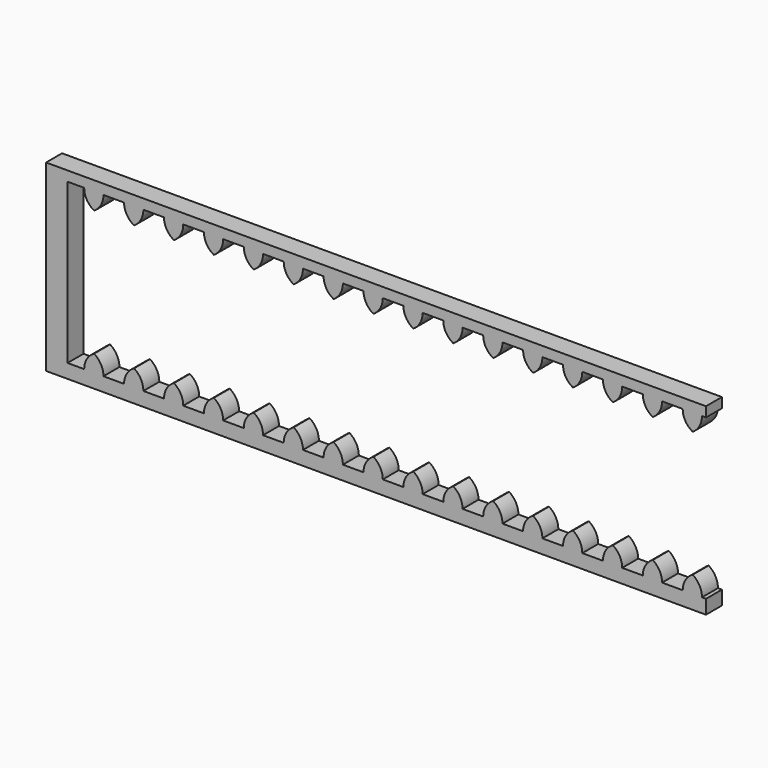
from build123d import *

# Parameters (mm, degrees)
F1_DEPTH = 6.35


with BuildPart() as f1:
    # F0 (on Front) → F1 (new body)
    with BuildSketch(Plane.XZ):
        Polygon((-100.167322, -14.499216), (-100.167322, 36.300784), (-94.868163, 36.300784), (-88.733239, 36.300784), (-82.168163, 36.300784), (-76.033239, 36.300784), (-69.468163, 36.300784), (-63.333239, 36.300784), (-56.768163, 36.300784), (-50.633239, 36.300784), (-44.068163, 36.300784), (-37.933239, 36.300784), (-31.368163, 36.300784), (-25.233239, 36.300784), (-18.668163, 36.300784), (-12.533239, 36.300784), (-5.968163, 36.300784), (0.166761, 36.300784), (6.731837, 36.300784), (12.866761, 36.300784), (19.431837, 36.300784), (25.566761, 36.300784), (32.131837, 36.300784), (38.266761, 36.300784), (44.831837, 36.300784), (50.966761, 36.300784), (57.531837, 36.300784), (63.666761, 36.300784), (70.231837, 36.300784), (76.366761, 36.300784), (82.931837, 36.300784), (89.066761, 36.300784), (95.631837, 36.300784), (101.766761, 36.300784), (103.032678, 36.300784), (103.032678, 39.458872), (-106.993854, 39.458872), (-106.993854, -18.961128), (103.032678, -18.961128), (103.032678, -14.499216), (101.766761, -14.499216), (95.631837, -14.499216), (89.066761, -14.499216), (82.931837, -14.499216), (76.366761, -14.499216), (70.231837, -14.499216), (63.666761, -14.499216), (57.531837, -14.499216), (50.966761, -14.499216), (44.831837, -14.499216), (38.266761, -14.499216), (32.131837, -14.499216), (25.566761, -14.499216), (19.431837, -14.499216), (12.866761, -14.499216), (6.731837, -14.499216), (0.166761, -14.499216), (-5.968163, -14.499216), (-12.533239, -14.499216), (-18.668163, -14.499216), (-25.233239, -14.499216), (-31.368163, -14.499216), (-37.933239, -14.499216), (-44.068163, -14.499216), (-50.633239, -14.499216), (-56.768163, -14.499216), (-63.333239, -14.499216), (-69.468163, -14.499216), (-76.033239, -14.499216), (-82.168163, -14.499216), (-88.733239, -14.499216), (-94.868163, -14.499216), align=None)
        with BuildLine():
            Line((-88.733239, 36.300784), (-94.868163, 36.300784))
            ThreePointArc((-94.868163, 36.300784), (-94.016162, 33.181807), (-91.696805, 30.92914))
            ThreePointArc((-91.696805, 30.92914), (-89.523277, 33.233322), (-88.733239, 36.300784))
        make_face()
        with BuildLine():
            Line((-76.033239, 36.300784), (-82.168163, 36.300784))
            ThreePointArc((-82.168163, 36.300784), (-81.316162, 33.181807), (-78.996805, 30.92914))
            ThreePointArc((-78.996805, 30.92914), (-76.823277, 33.233322), (-76.033239, 36.300784))
        make_face()
        with BuildLine():
            Line((-63.333239, 36.300784), (-69.468163, 36.300784))
            ThreePointArc((-69.468163, 36.300784), (-68.616162, 33.181807), (-66.296805, 30.92914))
            ThreePointArc((-66.296805, 30.92914), (-64.123277, 33.233322), (-63.333239, 36.300784))
        make_face()
        with BuildLine():
            Line((-50.633239, 36.300784), (-56.768163, 36.300784))
            ThreePointArc((-56.768163, 36.300784), (-55.916162, 33.181807), (-53.596805, 30.92914))
            ThreePointArc((-53.596805, 30.92914), (-51.423277, 33.233322), (-50.633239, 36.300784))
        make_face()
        with BuildLine():
            Line((-37.933239, 36.300784), (-44.068163, 36.300784))
            ThreePointArc((-44.068163, 36.300784), (-43.216162, 33.181807), (-40.896805, 30.92914))
            ThreePointArc((-40.896805, 30.92914), (-38.723277, 33.233322), (-37.933239, 36.300784))
        make_face()
        with BuildLine():
            Line((-25.233239, 36.300784), (-31.368163, 36.300784))
            ThreePointArc((-31.368163, 36.300784), (-30.516162, 33.181807), (-28.196805, 30.92914))
            ThreePointArc((-28.196805, 30.92914), (-26.023277, 33.233322), (-25.233239, 36.300784))
        make_face()
        with BuildLine():
            Line((-12.533239, 36.300784), (-18.668163, 36.300784))
            ThreePointArc((-18.668163, 36.300784), (-17.816162, 33.181807), (-15.496805, 30.92914))
            ThreePointArc((-15.496805, 30.92914), (-13.323277, 33.233322), (-12.533239, 36.300784))
        make_face()
        with BuildLine():
            Line((0.166761, 36.300784), (-5.968163, 36.300784))
            ThreePointArc((-5.968163, 36.300784), (-5.116162, 33.181807), (-2.796805, 30.92914))
            ThreePointArc((-2.796805, 30.92914), (-0.623277, 33.233322), (0.166761, 36.300784))
        make_face()
        with BuildLine():
            Line((12.866761, 36.300784), (6.731837, 36.300784))
            ThreePointArc((6.731837, 36.300784), (7.583838, 33.181807), (9.903195, 30.92914))
            ThreePointArc((9.903195, 30.92914), (12.076723, 33.233322), (12.866761, 36.300784))
        make_face()
        with BuildLine():
            Line((25.566761, 36.300784), (19.431837, 36.300784))
            ThreePointArc((19.431837, 36.300784), (20.283838, 33.181807), (22.603195, 30.92914))
            ThreePointArc((22.603195, 30.92914), (24.776723, 33.233322), (25.566761, 36.300784))
        make_face()
        with BuildLine():
            Line((38.266761, 36.300784), (32.131837, 36.300784))
            ThreePointArc((32.131837, 36.300784), (32.983838, 33.181807), (35.303195, 30.92914))
            ThreePointArc((35.303195, 30.92914), (37.476723, 33.233322), (38.266761, 36.300784))
        make_face()
        with BuildLine():
            Line((50.966761, 36.300784), (44.831837, 36.300784))
            ThreePointArc((44.831837, 36.300784), (45.683838, 33.181807), (48.003195, 30.92914))
            ThreePointArc((48.003195, 30.92914), (50.176723, 33.233322), (50.966761, 36.300784))
        make_face()
        with BuildLine():
            Line((63.666761, 36.300784), (57.531837, 36.300784))
            ThreePointArc((57.531837, 36.300784), (58.383838, 33.181807), (60.703195, 30.92914))
            ThreePointArc((60.703195, 30.92914), (62.876723, 33.233322), (63.666761, 36.300784))
        make_face()
        with BuildLine():
            Line((76.366761, 36.300784), (70.231837, 36.300784))
            ThreePointArc((70.231837, 36.300784), (71.083838, 33.181807), (73.403195, 30.92914))
            ThreePointArc((73.403195, 30.92914), (75.576723, 33.233322), (76.366761, 36.300784))
        make_face()
        with BuildLine():
            Line((89.066761, 36.300784), (82.931837, 36.300784))
            ThreePointArc((82.931837, 36.300784), (83.783838, 33.181807), (86.103195, 30.92914))
            ThreePointArc((86.103195, 30.92914), (88.276723, 33.233322), (89.066761, 36.300784))
        make_face()
        with BuildLine():
            Line((101.766761, 36.300784), (95.631837, 36.300784))
            ThreePointArc((95.631837, 36.300784), (96.483838, 33.181807), (98.803195, 30.92914))
            ThreePointArc((98.803195, 30.92914), (100.976723, 33.233322), (101.766761, 36.300784))
        make_face()
        with BuildLine():
            ThreePointArc((98.803195, -9.127571), (96.483838, -11.380239), (95.631837, -14.499216))
            Line((95.631837, -14.499216), (101.766761, -14.499216))
            ThreePointArc((101.766761, -14.499216), (100.976723, -11.431754), (98.803195, -9.127571))
        make_face()
        with BuildLine():
            ThreePointArc((86.103195, -9.127571), (83.783838, -11.380239), (82.931837, -14.499216))
            Line((82.931837, -14.499216), (89.066761, -14.499216))
            ThreePointArc((89.066761, -14.499216), (88.276723, -11.431754), (86.103195, -9.127571))
        make_face()
        with BuildLine():
            ThreePointArc((73.403195, -9.127571), (71.083838, -11.380239), (70.231837, -14.499216))
            Line((70.231837, -14.499216), (76.366761, -14.499216))
            ThreePointArc((76.366761, -14.499216), (75.576723, -11.431754), (73.403195, -9.127571))
        make_face()
        with BuildLine():
            ThreePointArc((60.703195, -9.127571), (58.383838, -11.380239), (57.531837, -14.499216))
            Line((57.531837, -14.499216), (63.666761, -14.499216))
            ThreePointArc((63.666761, -14.499216), (62.876723, -11.431754), (60.703195, -9.127571))
        make_face()
        with BuildLine():
            ThreePointArc((48.003195, -9.127571), (45.683838, -11.380239), (44.831837, -14.499216))
            Line((44.831837, -14.499216), (50.966761, -14.499216))
            ThreePointArc((50.966761, -14.499216), (50.176723, -11.431754), (48.003195, -9.127571))
        make_face()
        with BuildLine():
            ThreePointArc((35.303195, -9.127571), (32.983838, -11.380239), (32.131837, -14.499216))
            Line((32.131837, -14.499216), (38.266761, -14.499216))
            ThreePointArc((38.266761, -14.499216), (37.476723, -11.431754), (35.303195, -9.127571))
        make_face()
        with BuildLine():
            ThreePointArc((22.603195, -9.127571), (20.283838, -11.380239), (19.431837, -14.499216))
            Line((19.431837, -14.499216), (25.566761, -14.499216))
            ThreePointArc((25.566761, -14.499216), (24.776723, -11.431754), (22.603195, -9.127571))
        make_face()
        with BuildLine():
            ThreePointArc((9.903195, -9.127571), (7.583838, -11.380239), (6.731837, -14.499216))
            Line((6.731837, -14.499216), (12.866761, -14.499216))
            ThreePointArc((12.866761, -14.499216), (12.076723, -11.431754), (9.903195, -9.127571))
        make_face()
        with BuildLine():
            ThreePointArc((-2.796805, -9.127571), (-5.116162, -11.380239), (-5.968163, -14.499216))
            Line((-5.968163, -14.499216), (0.166761, -14.499216))
            ThreePointArc((0.166761, -14.499216), (-0.623277, -11.431754), (-2.796805, -9.127571))
        make_face()
        with BuildLine():
            ThreePointArc((-15.496805, -9.127571), (-17.816162, -11.380239), (-18.668163, -14.499216))
            Line((-18.668163, -14.499216), (-12.533239, -14.499216))
            ThreePointArc((-12.533239, -14.499216), (-13.323277, -11.431754), (-15.496805, -9.127571))
        make_face()
        with BuildLine():
            ThreePointArc((-28.196805, -9.127571), (-30.516162, -11.380239), (-31.368163, -14.499216))
            Line((-31.368163, -14.499216), (-25.233239, -14.499216))
            ThreePointArc((-25.233239, -14.499216), (-26.023277, -11.431754), (-28.196805, -9.127571))
        make_face()
        with BuildLine():
            ThreePointArc((-40.896805, -9.127571), (-43.216162, -11.380239), (-44.068163, -14.499216))
            Line((-44.068163, -14.499216), (-37.933239, -14.499216))
            ThreePointArc((-37.933239, -14.499216), (-38.723277, -11.431754), (-40.896805, -9.127571))
        make_face()
        with BuildLine():
            ThreePointArc((-53.596805, -9.127571), (-55.916162, -11.380239), (-56.768163, -14.499216))
            Line((-56.768163, -14.499216), (-50.633239, -14.499216))
            ThreePointArc((-50.633239, -14.499216), (-51.423277, -11.431754), (-53.596805, -9.127571))
        make_face()
        with BuildLine():
            ThreePointArc((-66.296805, -9.127571), (-68.616162, -11.380239), (-69.468163, -14.499216))
            Line((-69.468163, -14.499216), (-63.333239, -14.499216))
            ThreePointArc((-63.333239, -14.499216), (-64.123277, -11.431754), (-66.296805, -9.127571))
        make_face()
        with BuildLine():
            ThreePointArc((-78.996805, -9.127571), (-81.316162, -11.380239), (-82.168163, -14.499216))
            Line((-82.168163, -14.499216), (-76.033239, -14.499216))
            ThreePointArc((-76.033239, -14.499216), (-76.823277, -11.431754), (-78.996805, -9.127571))
        make_face()
        with BuildLine():
            ThreePointArc((-91.696805, -9.127571), (-94.016162, -11.380239), (-94.868163, -14.499216))
            Line((-94.868163, -14.499216), (-88.733239, -14.499216))
            ThreePointArc((-88.733239, -14.499216), (-89.523277, -11.431754), (-91.696805, -9.127571))
        make_face()
    extrude(amount=F1_DEPTH)


solid = f1.part
